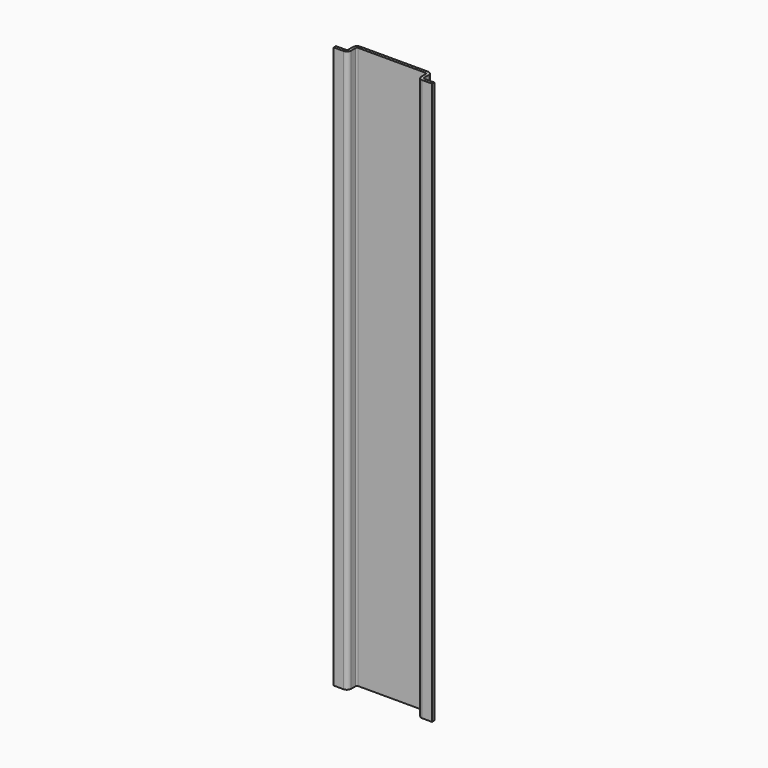
from build123d import *

# Parameters (mm, degrees)
PAD_DEPTH   = 200
FILLET_R    = 1.5
FILLET001_R = 1.5
FILLET002_R = 0.5
FILLET003_R = 0.5
FILLET004_R = 0.5
FILLET005_R = 0.5


with BuildPart() as part:
    # Sketch → Pad (new body)
    with BuildSketch(Plane.XY):
        Polygon((0, 0), (5, 0), (5, 4), (30, 4), (30, 0), (35, 0), (35, 1), (31, 1), (31, 5), (4, 5), (4, 1), (0, 1), align=None)
    extrude(amount=PAD_DEPTH)

    # Fillet
    fillet_edges = [part.edges().sort_by_distance(p)[0] for p in [
        (4, 5, 100),
    ]]
    fillet(fillet_edges, radius=FILLET_R)

    # Fillet001
    fillet001_edges = [part.edges().sort_by_distance(p)[0] for p in [
        (31, 5, 100),
        (30, 0, 100),
        (5, 0, 100),
    ]]
    fillet(fillet001_edges, radius=FILLET001_R)

    # Fillet002
    fillet002_edges = [part.edges().sort_by_distance(p)[0] for p in [
        (5, 4, 100),
    ]]
    fillet(fillet002_edges, radius=FILLET002_R)

    # Fillet003
    fillet003_edges = [part.edges().sort_by_distance(p)[0] for p in [
        (31, 1, 100),
    ]]
    fillet(fillet003_edges, radius=FILLET003_R)

    # Fillet004
    fillet004_edges = [part.edges().sort_by_distance(p)[0] for p in [
        (4, 1, 100),
    ]]
    fillet(fillet004_edges, radius=FILLET004_R)

    # Fillet005
    fillet005_edges = [part.edges().sort_by_distance(p)[0] for p in [
        (30, 4, 100),
    ]]
    fillet(fillet005_edges, radius=FILLET005_R)


solid = part.part
